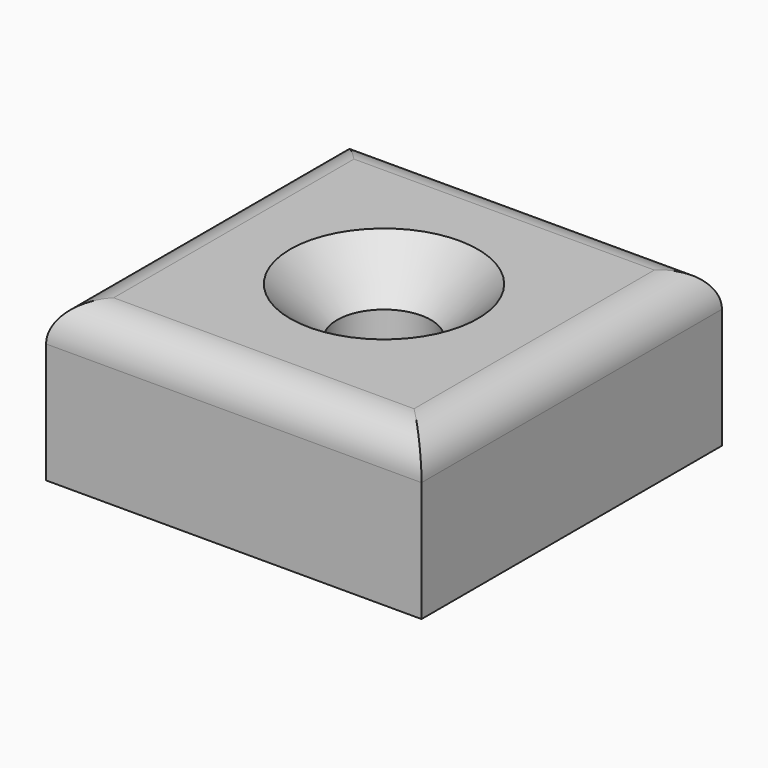
from build123d import *

# Parameters (mm, degrees)
F0_W           = 25.4
F0_H           = 25.4
F1_DEPTH       = 10.668
F2_R           = 2.54
F4_D           = 6.35
F4_CSINK_D     = 12.7
F4_CSINK_ANGLE = 90


with BuildPart() as f1:
    # F0 (on Top) → F1 (new body)
    with BuildSketch(Plane.XY):
        Rectangle(F0_W, F0_H)
    extrude(amount=F1_DEPTH)

    # F2
    f2_edges = [f1.edges().sort_by_distance(p)[0] for p in [
        (0, -12.7, 10.668),
        (0, 12.7, 10.668),
        (12.7, 0, 10.668),
        (-12.7, 0, 10.668),
    ]]
    fillet(f2_edges, radius=F2_R)

    # F4 (through all)
    with Locations(Plane.XY.offset(10.668)):
        with Locations((0, 0)):
            CounterSinkHole(F4_D / 2, F4_CSINK_D / 2, counter_sink_angle=F4_CSINK_ANGLE)


solid = f1.part
